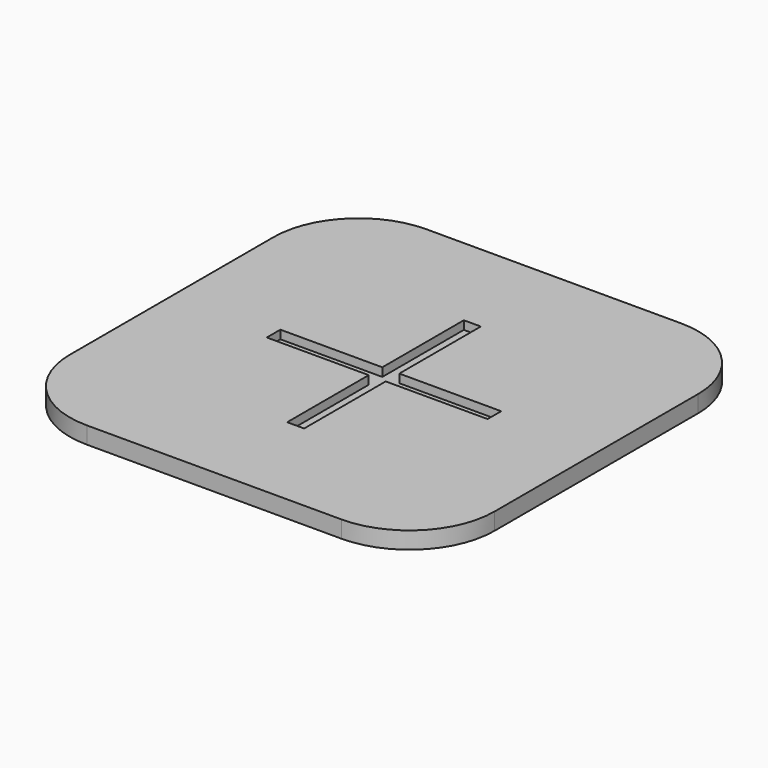
from build123d import *

# Parameters (mm, degrees)
F0_W           = 635
F0_H           = 635
F1_DEPTH       = 25.4
F9_DEPTH       = 12.7
F2_R           = 127
F3_W           = 457.2
F3_H           = 457.2
F4_DEPTH       = 3.175
F5_R           = 127
F7_D           = 3.175
F7_DEPTH       = 63.5
F7_CBORE_D     = 12.7
F7_CBORE_DEPTH = 3.175


with BuildPart() as f1:
    # F0 (on Top) → F1 (new body)
    with BuildSketch(Plane.XY):
        Rectangle(F0_W, F0_H)
    extrude(amount=F1_DEPTH)

    # F8 (on face) → F9 (cut)
    with BuildSketch(Plane.XY.offset(25.4)):
        Polygon((12.7, 12.7), (12.7, 165.1), (-12.7, 165.1), (-12.7, 12.7), (-165.1, 12.7), (-165.1, -12.7), (-12.7, -12.7), (-12.7, -165.1), (12.7, -165.1), (12.7, -12.7), (165.1, -12.7), (165.1, 12.7), align=None)
    extrude(amount=-F9_DEPTH, mode=Mode.SUBTRACT)

    # F2
    f2_edges = [f1.edges().sort_by_distance(p)[0] for p in [
        (-317.5, -317.5, 12.7),
        (317.5, -317.5, 12.7),
        (317.5, 317.5, 12.7),
        (-317.5, 317.5, 12.7),
    ]]
    fillet(f2_edges, radius=F2_R)

    # F3 (on face) → F4 (cut)
    with BuildSketch(Plane(origin=(0, 0, 0), x_dir=(1, 0, 0), z_dir=(0, 0, -1))):
        Rectangle(F3_W, F3_H)
    extrude(amount=-F4_DEPTH, mode=Mode.SUBTRACT)

    # F5
    f5_edges = [f1.edges().sort_by_distance(p)[0] for p in [
        (-228.6, -228.6, 1.5875),
        (228.6, -228.6, 1.5875),
        (228.6, 228.6, 1.5875),
        (-228.6, 228.6, 1.5875),
    ]]
    fillet(f5_edges, radius=F5_R)

    # F7
    with Locations(Plane(origin=(0, 0, 3.175), x_dir=(1, 0, 0), z_dir=(0, 0, -1))):
        with Locations((-127, 0), (127, 0), (0, 127), (0, -127)):
            CounterBoreHole(F7_D / 2, F7_CBORE_D / 2, F7_CBORE_DEPTH, depth=F7_DEPTH)


solid = f1.part
